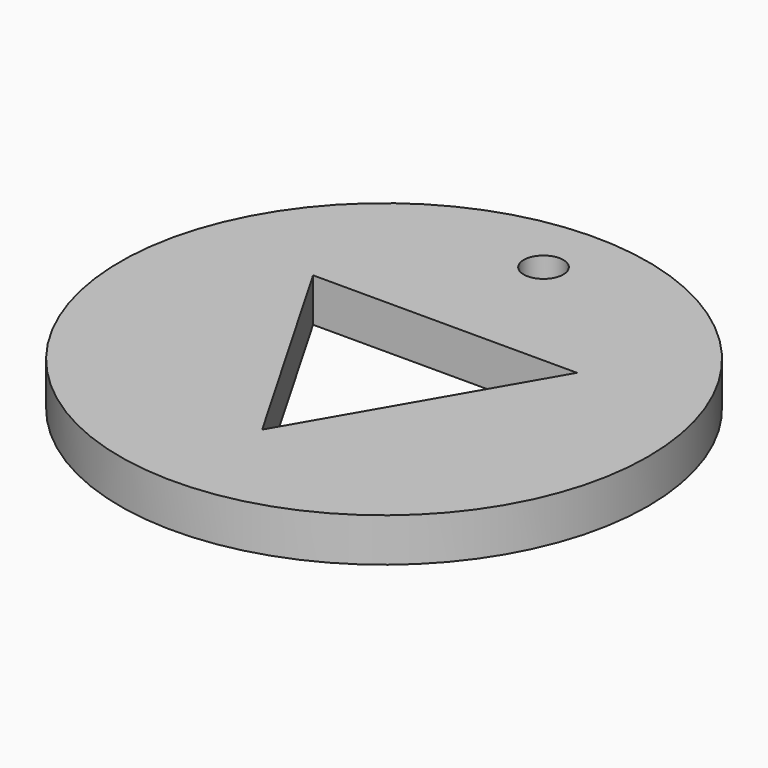
from build123d import *

# Parameters (mm, degrees)
CYLINDER_R      = 20
CYLINDER_DEPTH  = 3.3
SKETCH_R        = 1.5
POCKET_DEPTH    = 3.301
POCKET002_DEPTH = 3.301


with BuildPart() as part:
    # Cylinder → Cylinder (new body)
    with BuildSketch(Plane.XY):
        Circle(CYLINDER_R)
    extrude(amount=CYLINDER_DEPTH)

    # Sketch → Pocket (cut, through all)
    with BuildSketch(Plane.XY.offset(3.3)):
        with Locations((0, 15.1)):
            Circle(SKETCH_R)
    extrude(amount=-POCKET_DEPTH, mode=Mode.SUBTRACT)

    # Sketch001 → Pocket002 (cut, through all)
    with BuildSketch(Plane(origin=(0, 0, 0), x_dir=(1, 0, 0), z_dir=(0, 0, -1))):
        Polygon((0, 11.547005), (-10, -5.773503), (10, -5.773503), align=None)
    extrude(amount=-POCKET002_DEPTH, mode=Mode.SUBTRACT)


solid = part.part
